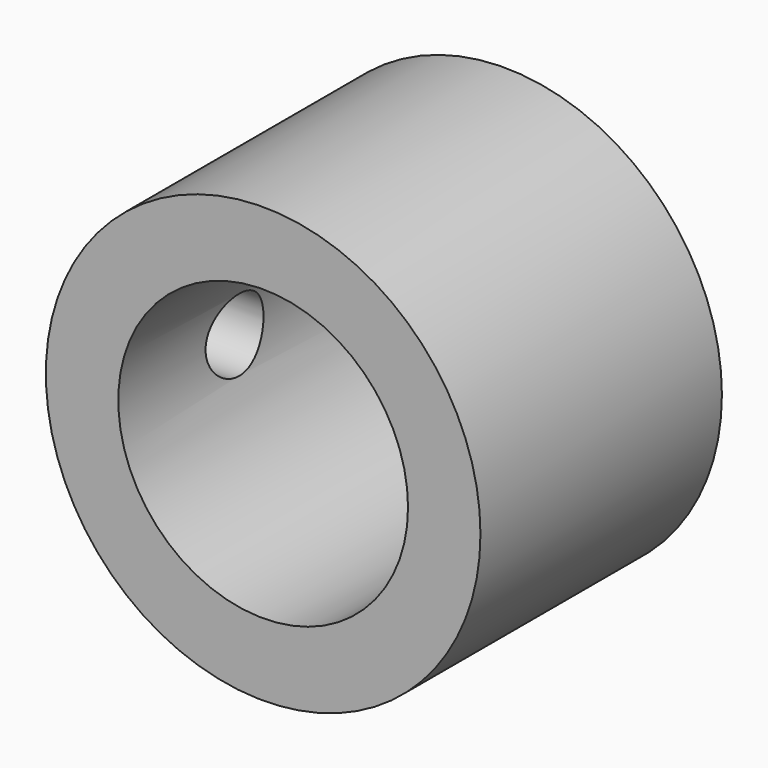
from build123d import *

# Parameters (mm, degrees)
F0_R     = 9
F0_R_2   = 6
F1_DEPTH = 12.5
F3_D     = 3
F3_DEPTH = 12
F3_TIP   = 0.9012909285


with BuildPart() as f1:
    # F0 (on Front) → F1 (new body)
    with BuildSketch(Plane.XZ):
        Circle(F0_R)
        Circle(F0_R_2, mode=Mode.SUBTRACT)
    extrude(amount=F1_DEPTH)

    # F3 (one way)
    with BuildSketch(Plane.YZ):
        with Locations((-6.4821792766, 0)):
            Circle(F3_D / 2)
    extrude(amount=-F3_DEPTH, mode=Mode.SUBTRACT)
    with Locations(Plane.YZ):
        with Locations((-6.4821792766, 0)):
            with Locations((0, 0, -(F3_DEPTH + F3_TIP / 2))):  # 118° drill point
                Cone(0, F3_D / 2, F3_TIP, mode=Mode.SUBTRACT)


solid = f1.part
